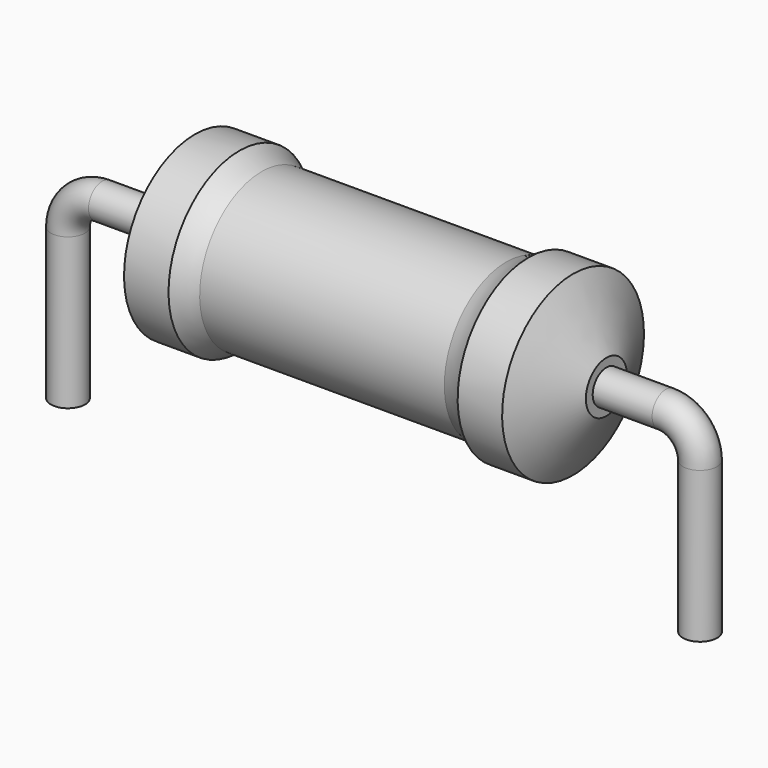
from build123d import *

# Parameters (mm, degrees)
SKETCH_R = 0.55


with BuildPart() as revolution:
    # Sketch002 → Revolution (revolve)
    with BuildSketch(Plane.XZ):
        with BuildLine():
            Line((4.0825, 5.8), (5.5125, 5.8))
            ThreePointArc((5.5125, 5.8), (5.855206, 5.591662), (6.2275, 5.4425))
            Line((6.2275, 5.4425), (14.0925, 5.4425))
            ThreePointArc((14.0925, 5.4425), (14.464794, 5.591662), (14.8075, 5.8))
            Line((14.8075, 5.8), (16.2375, 5.8))
            ThreePointArc((17.31, 3.775), (16.776736, 4.789082), (16.2375, 5.8))
            Line((17.31, 2.95), (17.31, 3.775))
            Line((3.01, 2.95), (17.31, 2.95))
            Line((3.01, 2.95), (3.01, 3.775))
            ThreePointArc((4.0825, 5.8), (3.543264, 4.789082), (3.01, 3.775))
        make_face()
    revolve(axis=Axis((3.01, 0, 2.95), (1, 0, 0)))


with BuildPart() as sweep_body:
    # Sweep: sweep along a path in Sketch001
    with BuildLine(Plane.XZ) as sweep_path:
        Line((0, -3), (0, 1.85))
        ThreePointArc((0, 1.85), (0.32218, 2.627814), (1.099991, 2.95))
        Line((1.099991, 2.95), (19.22, 2.95))
        ThreePointArc((19.22, 2.95), (19.997817, 2.627817), (20.32, 1.85))
        Line((20.32, 1.85), (20.32, -3))
    # Sketch → Sweep (sweep)
    with BuildSketch(Plane.XY.offset(-2)):
        Circle(SKETCH_R)
    sweep(path=sweep_path.line)


solid = Compound([revolution.part, sweep_body.part])
